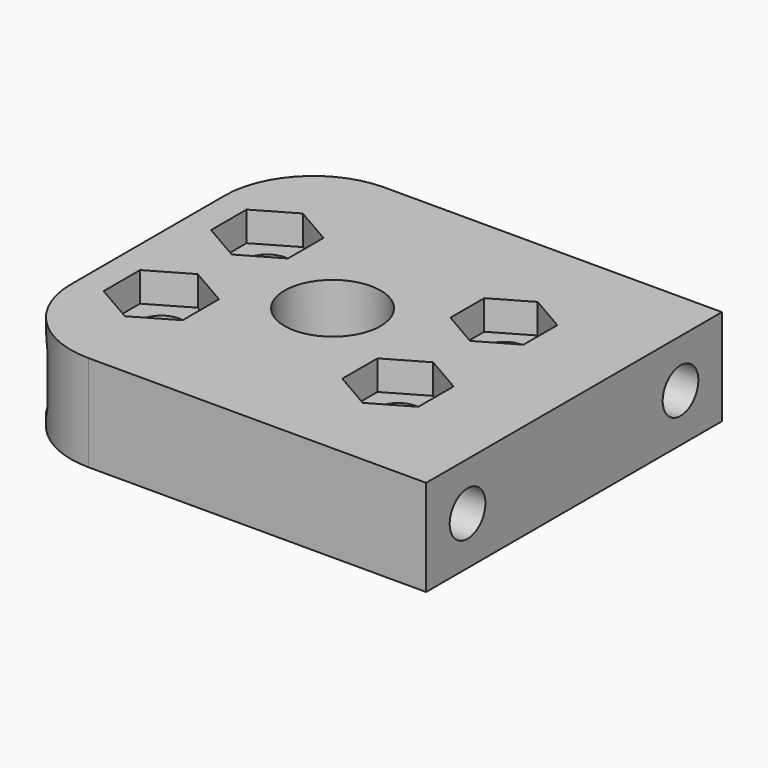
from build123d import *

# Parameters (mm, degrees)
SKETCH008_W     = 57.65
SKETCH008_H     = 50
PAD_DEPTH       = 13
SKETCH009_R     = 3.015
POCKET_DEPTH    = 23.501
FILLET_R        = 12
SKETCH_R        = 6.5
POCKET001_DEPTH = 13.001
POCKET002_DEPTH = 4
SKETCH011_R     = 7.25
POCKET003_DEPTH = 4
SKETCH012_R     = 3.015
POCKET004_DEPTH = 57.651
POCKET005_DEPTH = 4


with BuildPart() as part:
    # Sketch008 → Pad (new body)
    with BuildSketch(Plane.XY):
        with Locations((3.825, 0)):
            Rectangle(SKETCH008_W, SKETCH008_H)
    extrude(amount=PAD_DEPTH)

    # Sketch009 → Pocket (cut, through all)
    with BuildSketch(Plane.XY.offset(23.5)):
        with Locations((-16, 8.955)):
            Circle(SKETCH009_R)
        with Locations((-16, -8.955)):
            Circle(SKETCH009_R)
        with Locations((16, 8.955)):
            Circle(SKETCH009_R)
        with Locations((16, -8.955)):
            Circle(SKETCH009_R)
    extrude(amount=-POCKET_DEPTH, mode=Mode.SUBTRACT)

    # Fillet
    fillet_edges = [part.edges().sort_by_distance(p)[0] for p in [
        (-25, 25, 6.5),
        (-25, -25, 6.5),
    ]]
    fillet(fillet_edges, radius=FILLET_R)

    # Sketch (on Face5 of Fillet) → Pocket001 (cut, through all)
    with BuildSketch(Plane.XY.offset(13)):
        Circle(SKETCH_R)
    extrude(amount=-POCKET001_DEPTH, mode=Mode.SUBTRACT)

    # Sketch010 (on Face5 of Pocket001) → Pocket002 (cut)
    with BuildSketch(Plane.XY.offset(13)):
        Polygon((-10.8, 11.957221), (-16, 14.959443), (-21.2, 11.957221), (-21.2, 5.952779), (-16, 2.950557), (-10.8, 5.952779), align=None)
        Polygon((20.944817, 11.809891), (16, 14.664783), (11.055183, 11.809891), (11.055183, 6.100109), (16, 3.245217), (20.944817, 6.100109), align=None)
        Polygon((-10.662676, -5.873494), (-16, -2.791989), (-21.337324, -5.873494), (-21.337324, -12.036506), (-16, -15.118011), (-10.662676, -12.036506), align=None)
        Polygon((21.146526, -5.983652), (16, -3.012303), (10.853474, -5.983652), (10.853474, -11.926348), (16, -14.897697), (21.146526, -11.926348), align=None)
    extrude(amount=-POCKET002_DEPTH, mode=Mode.SUBTRACT)

    # Sketch011 (on Face2 of Pocket002) → Pocket003 (cut)
    with BuildSketch(Plane(origin=(0, 0, 0), x_dir=(1, 0, 0), z_dir=(0, 0, -1))):
        with Locations((-16, 8.955)):
            Circle(SKETCH011_R)
        with Locations((16, 8.955)):
            Circle(SKETCH011_R)
        with Locations((-16, -8.955)):
            Circle(SKETCH011_R)
        with Locations((16, -8.955)):
            Circle(SKETCH011_R)
    extrude(amount=-POCKET003_DEPTH, mode=Mode.SUBTRACT)

    # Sketch012 (on Face4 of Pocket003) → Pocket004 (cut, through all)
    with BuildSketch(Plane.YZ.offset(32.65)):
        with Locations((18, 6.5)):
            Circle(SKETCH012_R)
        with Locations((-18, 6.5)):
            Circle(SKETCH012_R)
    extrude(amount=-POCKET004_DEPTH, mode=Mode.SUBTRACT)

    # Sketch013 (on Face6 of Pocket004) → Pocket005 (cut)
    with BuildSketch(Plane(origin=(-25, 0, 0), x_dir=(0, -1, 0), z_dir=(-1, 0, 0))):
        Polygon((-12.053292, 6.5), (-15.026646, 11.65), (-20.973354, 11.65), (-23.946708, 6.5), (-20.973354, 1.35), (-15.026646, 1.35), align=None)
        Polygon((23.946708, 6.5), (20.973354, 11.65), (15.026646, 11.65), (12.053292, 6.5), (15.026646, 1.35), (20.973354, 1.35), align=None)
    extrude(amount=-POCKET005_DEPTH, mode=Mode.SUBTRACT)


solid = part.part
